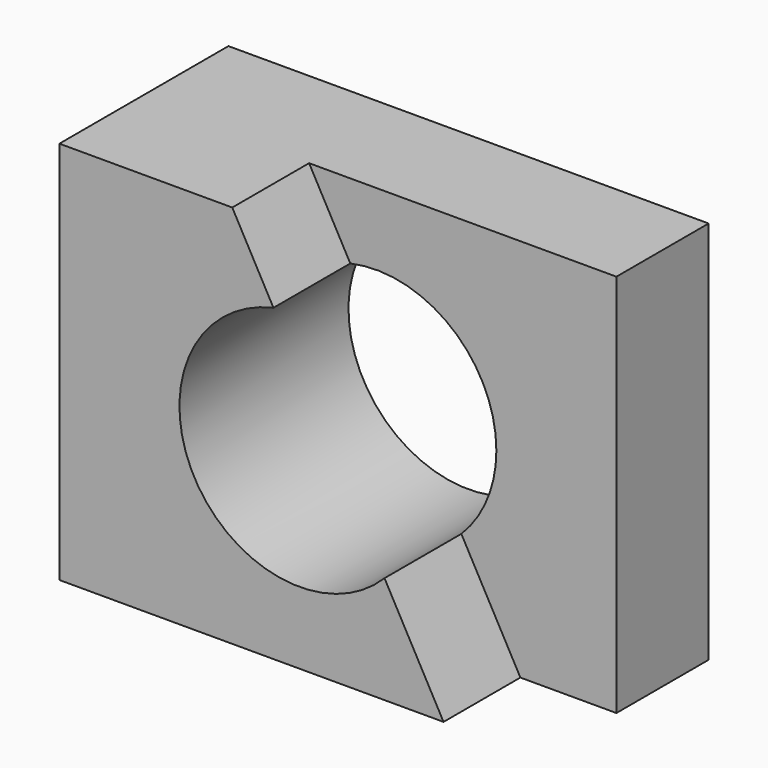
from build123d import *

# Parameters (mm, degrees)
F0_W     = 100
F0_H     = 80
F1_DEPTH = 22
F3_DEPTH = 20
F5_DEPTH = 44.001


with BuildPart() as f1:
    # F0 (on Front) → F1 (new body, symmetric)
    with BuildSketch(Plane.XZ):
        Rectangle(F0_W, F0_H)
    extrude(amount=F1_DEPTH, both=True)

    # F2 (on face) → F3 (cut)
    with BuildSketch(Plane.XZ.offset(22)):
        Polygon((-14, 40), (30, -40), (50, -40), (50, 40), align=None)
    extrude(amount=-F3_DEPTH, mode=Mode.SUBTRACT)

    # F4 (on face) → F5 (cut, through all)
    with BuildSketch(Plane.XZ.offset(22)):
        with BuildLine():
            ThreePointArc((17.706716, -17.648575), (23.104847, -9.548091), (25, 0))
            ThreePointArc((25, 0), (15.64343, 19.500848), (-5.422647, 24.404813))
            Line((-5.422647, 24.404813), (17.706716, -17.648575))
        make_face()
        with BuildLine():
            Line((17.706716, -17.648575), (-5.422647, 24.404813))
            ThreePointArc((-5.422647, 24.404813), (-21.905398, -12.047969), (17.706716, -17.648575))
        make_face()
    extrude(amount=-F5_DEPTH, mode=Mode.SUBTRACT)


solid = f1.part
